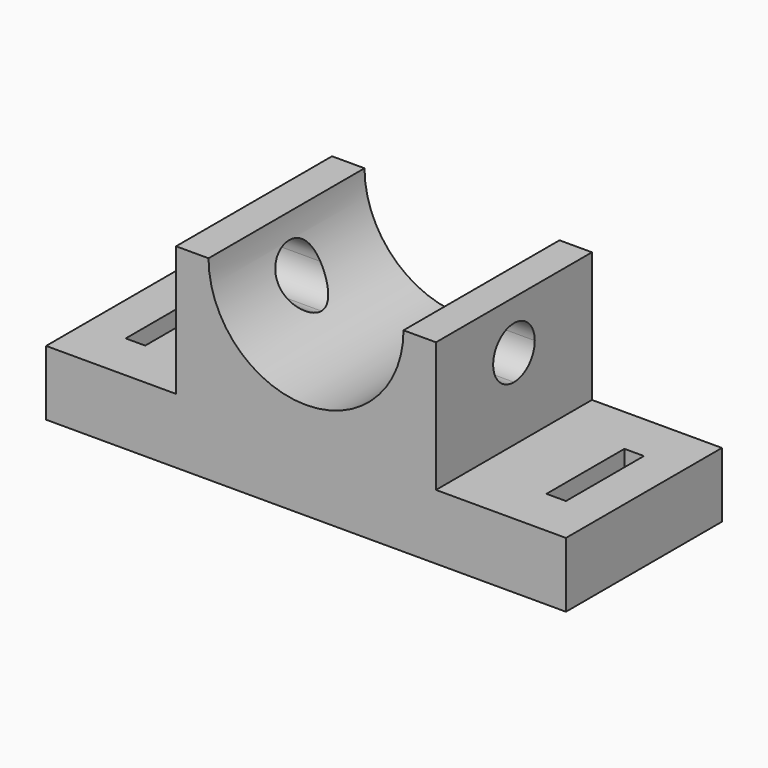
from build123d import *

# Parameters (mm, degrees)
F0_W      = 1600
F0_H      = 600
F1_DEPTH  = 600
F3_DEPTH  = 600.001
F5_W      = 400
F5_H      = 400
F6_DEPTH  = 600.001
F7_W      = 400
F7_H      = 400
F8_DEPTH  = 600.001
F10_DEPTH = 1400
F12_DEPTH = 200.001
F14_DEPTH = 600.001


with BuildPart() as f1:
    # F0 (on Top) → F1 (new body)
    with BuildSketch(Plane.XY):
        Rectangle(F0_W, F0_H)
    extrude(amount=F1_DEPTH)

    # F2 (on face) → F3 (cut, through all)
    with BuildSketch(Plane.XZ.offset(300)):
        with BuildLine():
            ThreePointArc((-300, 600), (0, 300), (300, 600))
            Line((300, 600), (-300, 600))
        make_face()
    extrude(amount=-F3_DEPTH, mode=Mode.SUBTRACT)

    # F5 (on face) → F6 (cut, through all)
    with BuildSketch(Plane.XZ.offset(300)):
        with Locations((600, 400)):
            Rectangle(F5_W, F5_H)
    extrude(amount=-F6_DEPTH, mode=Mode.SUBTRACT)

    # F7 (on face) → F8 (cut, through all)
    with BuildSketch(Plane.XZ.offset(300)):
        with Locations((-600, 400)):
            Rectangle(F7_W, F7_H)
    extrude(amount=-F8_DEPTH, mode=Mode.SUBTRACT)

    # F9 (on face) → F10 (cut)
    with BuildSketch(Plane.YZ.offset(400)):
        with BuildLine():
            ThreePointArc((80, 450), (-56.568542, 506.568542), (0, 370))
            ThreePointArc((0, 370), (56.568542, 393.431458), (80, 450))
        make_face()
    extrude(amount=-F10_DEPTH, mode=Mode.SUBTRACT)

    # F11 (on face) → F12 (cut, through all)
    with BuildSketch(Plane.XY.offset(200)):
        Polygon((680, -150), (680, 0), (680, 150), (620, 150), (620, -150), align=None)
    extrude(amount=-F12_DEPTH, mode=Mode.SUBTRACT)

    # F13 (on face) → F14 (cut, through all)
    with BuildSketch(Plane.XY.offset(600)):
        Polygon((-674.93165, 0), (-674.93165, -150), (-614.93165, -150), (-614.93165, 150), (-674.93165, 150), align=None)
    extrude(amount=-F14_DEPTH, mode=Mode.SUBTRACT)


solid = f1.part
